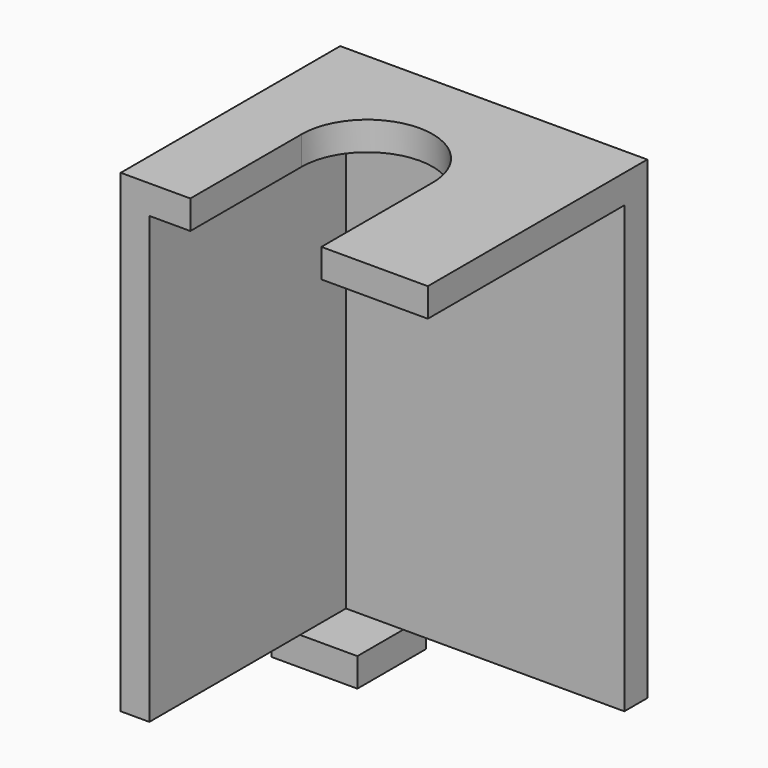
from build123d import *

# Parameters (mm, degrees)
F0_W     = 4.445
F0_H     = 69.088
F1_DEPTH = 42.545
F2_W     = 43.18
F2_H     = 69.088
F3_DEPTH = 4.445
F4_W     = 13.335
F4_H     = 4.445
F5_DEPTH = 13.335
F7_DEPTH = 4.445


with BuildPart() as f1:
    # F0 (on Front) → F1 (new body)
    with BuildSketch(Plane.XZ):
        with Locations((2.2225, 34.544)):
            Rectangle(F0_W, F0_H)
    extrude(amount=F1_DEPTH)

    # F2 (on Front) → F3 (join)
    with BuildSketch(Plane.XZ):
        with Locations((26.035, 34.544)):
            Rectangle(F2_W, F2_H)
    extrude(amount=F3_DEPTH)

    # F4 (on Front) → F5 (join)
    with BuildSketch(Plane.XZ):
        with Locations((6.6675, -2.2225)):
            Rectangle(F4_W, F4_H)
    extrude(amount=F5_DEPTH)

    # F6 (on face) → F7 (join)
    with BuildSketch(Plane.XY.offset(69.088)):
        with BuildLine():
            Line((47.625, 0), (0, 0))
            Line((0, 0), (0, -42.545))
            Line((0, -42.545), (10.795, -42.545))
            Line((10.795, -42.545), (10.795, -20.955))
            ThreePointArc((10.795, -20.955), (20.955, -10.795), (31.115, -20.955))
            Line((31.115, -20.955), (31.115, -42.545))
            Line((31.115, -42.545), (47.625, -42.545))
            Line((47.625, -42.545), (47.625, 0))
        make_face()
    extrude(amount=F7_DEPTH)


solid = f1.part
